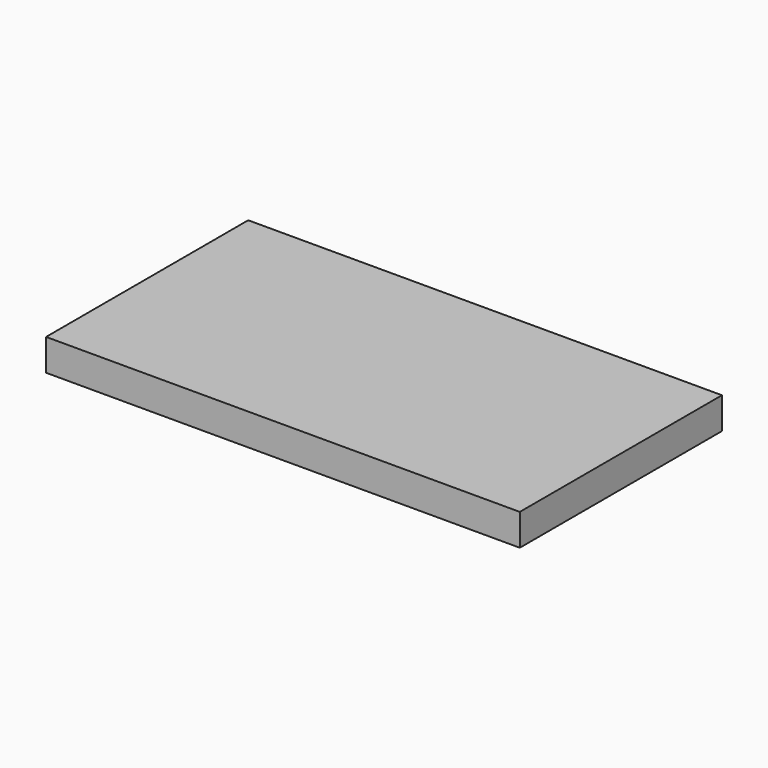
from build123d import *

# Parameters (mm, degrees)
F2_W     = 150
F2_H     = 80
F3_DEPTH = 10


with BuildPart() as f3:
    # F2 (on face) → F3 (new body)
    with BuildSketch(Plane.XY):
        with Locations((35.048823, -2.172321)):
            Rectangle(F2_W, F2_H)
    extrude(amount=F3_DEPTH)


solid = f3.part
